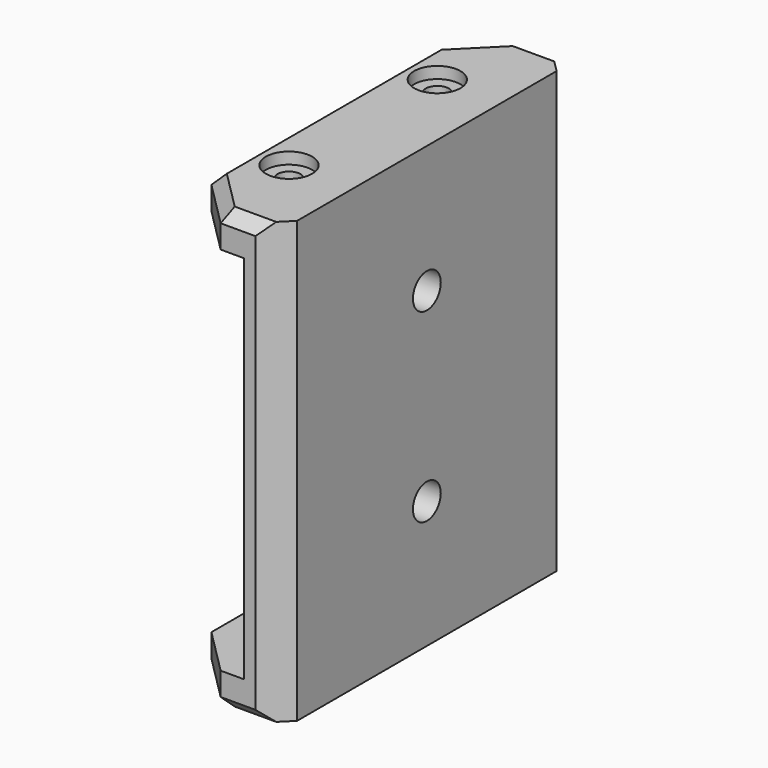
from build123d import *

# Parameters (mm, degrees)
F0_W           = 6
F0_H           = 3
F1_DEPTH       = 16
F3_D           = 2
F3_DEPTH       = 5
F3_CBORE_D     = 4
F3_CBORE_DEPTH = 1
F3_TIP         = 0.600860619
F5_D           = 2
F5_DEPTH       = 5
F5_CBORE_D     = 4
F5_CBORE_DEPTH = 1
F5_TIP         = 0.600860619
F6_SIZE        = 4
F8_D           = 3
F8_CBORE_D     = 6
F8_CBORE_DEPTH = 1
F9_SIZE        = 1
F10_SIZE       = 2


with BuildPart() as f1:
    # F0 (on Front) → F1 (new body, symmetric)
    with BuildSketch(Plane.XZ):
        with Locations((-6, 17.5)):
            Rectangle(F0_W, F0_H)
        Polygon((0, -19), (0, 19), (-3, 19), (-3, 16), (-3, -16), (-3, -19), align=None)
        with Locations((-6, -17.5)):
            Rectangle(F0_W, F0_H)
    extrude(amount=F1_DEPTH, both=True)

    # F3
    with Locations(Plane.XY.offset(19)):
        with Locations((-5.5, 8), (-5.5, -8)):
            CounterBoreHole(F3_D / 2, F3_CBORE_D / 2, F3_CBORE_DEPTH, depth=F3_DEPTH)
            with Locations((0, 0, -(F3_DEPTH + F3_TIP / 2))):  # 118° drill point
                Cone(0, F3_D / 2, F3_TIP, mode=Mode.SUBTRACT)

    # F5
    with Locations(Plane(origin=(0, 0, -19), x_dir=(1, 0, 0), z_dir=(0, 0, -1))):
        with Locations((-5.5, -8), (-5.5, 8)):
            CounterBoreHole(F5_D / 2, F5_CBORE_D / 2, F5_CBORE_DEPTH, depth=F5_DEPTH)
            with Locations((0, 0, -(F5_DEPTH + F5_TIP / 2))):  # 118° drill point
                Cone(0, F5_D / 2, F5_TIP, mode=Mode.SUBTRACT)

    # F6
    f6_edges = [f1.edges().sort_by_distance(p)[0] for p in [
        (-9, -16, 17.5),
        (-9, 16, 17.5),
        (-9, 16, -17.5),
        (-9, -16, -17.5),
    ]]
    chamfer(f6_edges, length=F6_SIZE)

    # F8 (through all)
    with Locations(Plane(origin=(-3, 0, 0), x_dir=(0, -1, 0), z_dir=(-1, 0, 0))):
        with Locations((0, 8), (0, -8)):
            CounterBoreHole(F8_D / 2, F8_CBORE_D / 2, F8_CBORE_DEPTH)

    # F9
    f9_edges = [f1.edges().sort_by_distance(p)[0] for p in [
        (-2.5, 16, 19),
        (-7, 14, 19),
        (-9, 0, 19),
        (-7, -14, 19),
        (-2.5, -16, 19),
        (-2.5, 16, -19),
        (-7, 14, -19),
        (-9, 0, -19),
        (-7, -14, -19),
        (-2.5, -16, -19),
    ]]
    chamfer(f9_edges, length=F9_SIZE)

    # F10
    f10_edges = [f1.edges().sort_by_distance(p)[0] for p in [
        (0, 16, 0),
        (0, -16, 0),
    ]]
    chamfer(f10_edges, length=F10_SIZE)


solid = f1.part
